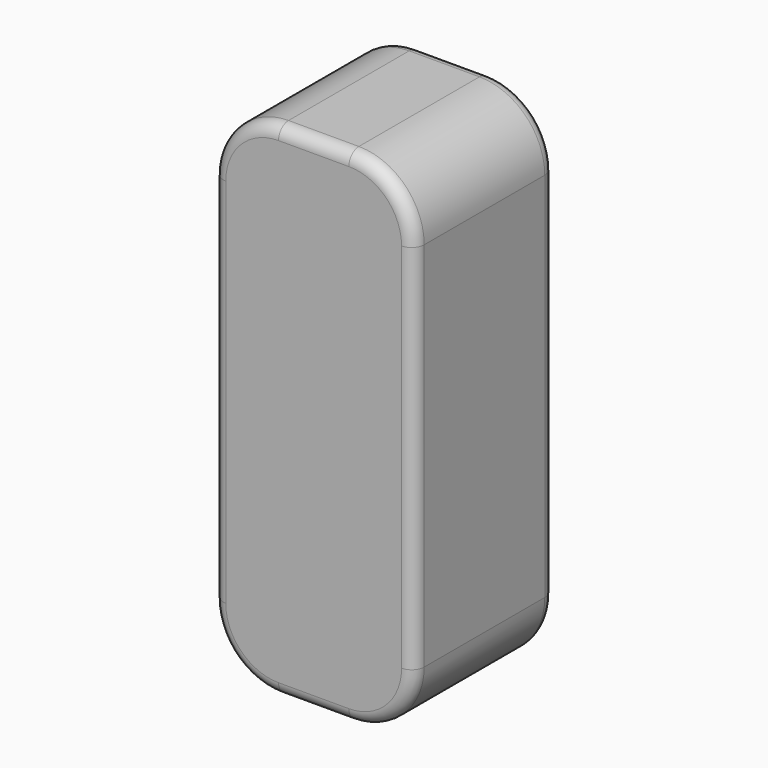
from build123d import *

# Parameters (mm, degrees)
F1_DEPTH = 44.45
F2_R     = 3.175


with BuildPart() as f1:
    # F0 (on Front) → F1 (new body)
    with BuildSketch(Plane.XZ):
        with BuildLine():
            Line((8.89, 63.5), (-8.89, 63.5))
            ThreePointArc((-8.89, 63.5), (-20.564333, 58.664333), (-25.4, 46.99))
            Line((-25.4, 46.99), (-25.4, -46.99))
            ThreePointArc((-25.4, -46.99), (-20.564333, -58.664333), (-8.89, -63.5))
            Line((-8.89, -63.5), (8.89, -63.5))
            ThreePointArc((8.89, -63.5), (20.564333, -58.664333), (25.4, -46.99))
            Line((25.4, -46.99), (25.4, 46.99))
            ThreePointArc((25.4, 46.99), (20.564333, 58.664333), (8.89, 63.5))
        make_face()
    extrude(amount=F1_DEPTH)

    # F2
    f2_edges = [f1.edges().sort_by_distance(p)[0] for p in [
        (-25.4, -22.225, -46.99),
        (-8.89, -22.225, -63.5),
        (-20.564333, 0, -58.664333),
        (-20.564333, -44.45, -58.664333),
        (8.89, -22.225, -63.5),
        (25.4, -22.225, -46.99),
        (20.564333, 0, -58.664333),
        (20.564333, -44.45, -58.664333),
    ]]
    fillet(f2_edges, radius=F2_R)


solid = f1.part
